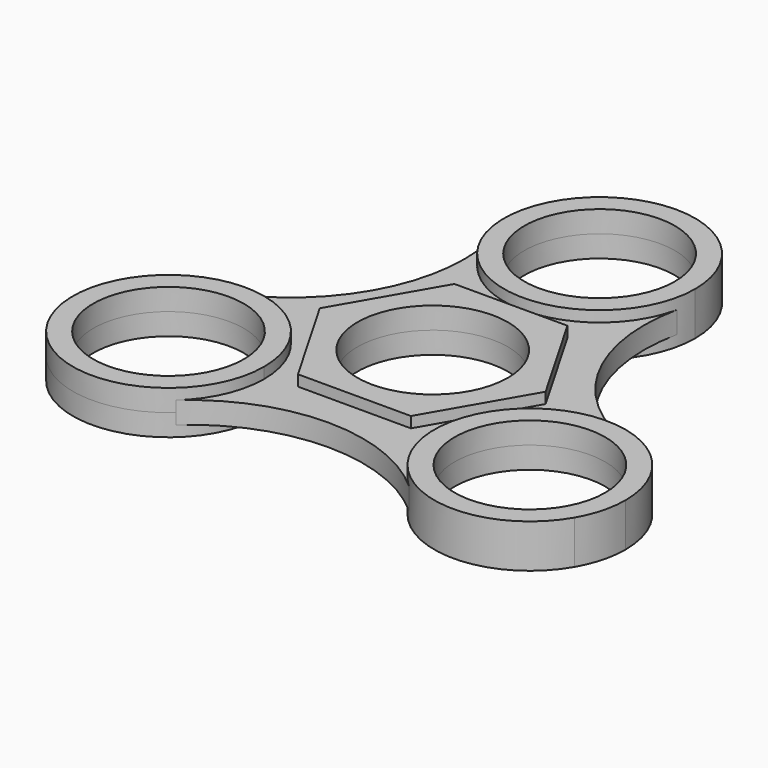
from build123d import *

# Parameters (mm, degrees)
F0_R          = 10.9982
F1_DEPTH      = 3.175
F1_DEPTH_BACK = 3.175
F3_DEPTH      = 1.5875
F3_DEPTH_BACK = 1.5875


with BuildPart() as f1:
    # F0 (on Top) → F1 (new body, two sides)
    with BuildSketch(Plane.XY) as f1_sk:
        with BuildLine():
            ThreePointArc((13.97, 30.48), (9.878282, 40.358282), (0, 44.45))
            ThreePointArc((0, 44.45), (-9.878282, 20.601718), (13.97, 30.48))
        make_face()
        with Locations((0, 30.48)):
            Circle(F0_R, mode=Mode.SUBTRACT)
        Polygon((8.248892, 14.2875), (-8.248892, 14.2875), (-16.497784, 0), (-8.248892, -14.2875), (8.248892, -14.2875), (16.497784, 0), align=None)
        Circle(F0_R, mode=Mode.SUBTRACT)
        with BuildLine():
            ThreePointArc((-12.426454, -15.24), (-30.012156, -1.746016), (-38.494829, -22.225))
            ThreePointArc((-38.494829, -22.225), (-22.780753, -28.733984), (-12.426454, -15.24))
        make_face()
        with Locations((-26.396454, -15.24)):
            Circle(F0_R, mode=Mode.SUBTRACT)
        with BuildLine():
            ThreePointArc((40.366454, -15.24), (12.902471, -11.624298), (38.494829, -22.225))
            ThreePointArc((38.494829, -22.225), (39.890438, -18.855702), (40.366454, -15.24))
        make_face()
        with Locations((26.396454, -15.24)):
            Circle(F0_R, mode=Mode.SUBTRACT)
    extrude(amount=F1_DEPTH)
    extrude(f1_sk.sketch, amount=-F1_DEPTH_BACK)


with BuildPart() as f3:
    # F2 (on Top) → F3 (new body, two sides)
    with BuildSketch(Plane.XY) as f3_sk:
        with BuildLine():
            ThreePointArc((13.659456, 27.550806), (0, 16.51), (-13.659456, 27.550806))
            ThreePointArc((-13.659456, 27.550806), (-16.497784, 9.525), (-30.689426, -1.945968))
            ThreePointArc((-30.689426, -1.945968), (-18.174895, -3.94545), (-12.426454, -15.24))
            ThreePointArc((-12.426454, -15.24), (-13.6291, -20.910587), (-17.029971, -25.604839))
            ThreePointArc((-17.029971, -25.604839), (0, -19.05), (17.029971, -25.604839))
            ThreePointArc((17.029971, -25.604839), (14.298079, -8.255), (30.689426, -1.945968))
            ThreePointArc((30.689426, -1.945968), (16.497784, 9.525), (13.659456, 27.550806))
        make_face()
        Polygon((-8.248892, -14.2875), (-16.497784, 0), (-8.248892, 14.2875), (8.248892, 14.2875), (16.497784, 0), (8.248892, -14.2875), align=None, mode=Mode.SUBTRACT)
    extrude(amount=F3_DEPTH)
    extrude(f3_sk.sketch, amount=-F3_DEPTH_BACK)


solid = Compound([f1.part, f3.part])
